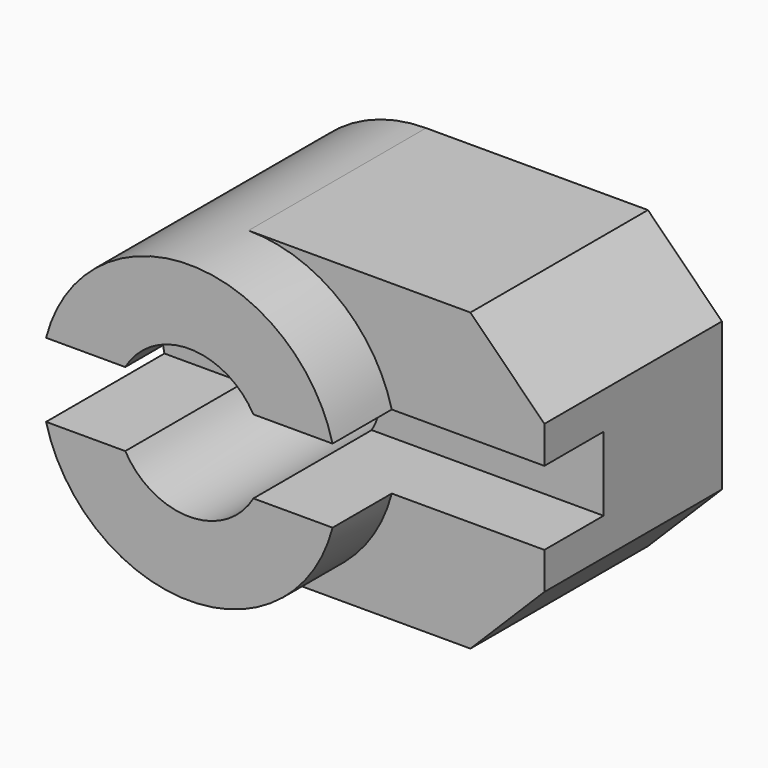
from build123d import *

# Parameters (mm, degrees)
F0_R     = 10
F0_R_2   = 5
F1_DEPTH = 10
F3_DEPTH = 15
F4_DEPTH = 10
F6_DEPTH = 10


with BuildPart() as f1:
    # F0 (on Front) → F1 (new body, symmetric)
    with BuildSketch(Plane.XZ):
        Circle(F0_R)
        Circle(F0_R_2, mode=Mode.SUBTRACT)
    extrude(amount=F1_DEPTH, both=True)

    # F2 (on face) → F3 (join)
    with BuildSketch(Plane(origin=(0, 10, 0), x_dir=(-1, 0, 0), z_dir=(0, 1, 0))):
        Polygon((0, -10), (0, 0), (0, 10), (-15, 10), (-20, 5), (-20, -5), (-15, -10), align=None)
    extrude(amount=-F3_DEPTH)

    # F0 (on Front) → F4 (cut, symmetric)
    with BuildSketch(Plane.XZ):
        Circle(F0_R_2)
    extrude(amount=F4_DEPTH, both=True, mode=Mode.SUBTRACT)

    # F5 (on Front) → F6 (cut, through all)
    with BuildSketch(Plane.XZ):
        Polygon((20, 2.5), (0, 2.5), (-10, 2.5), (-10, -2.5), (20, -2.5), align=None)
    extrude(amount=F6_DEPTH, mode=Mode.SUBTRACT)


solid = f1.part
